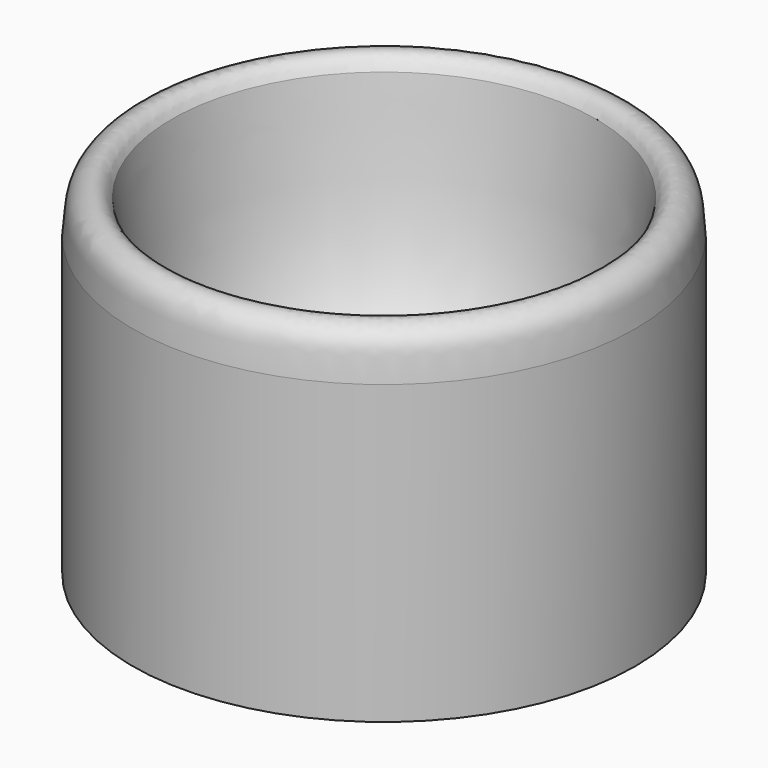
from build123d import *


with BuildPart() as f1:
    # F0 (on Front) → F1 (revolve)
    with BuildSketch(Plane.XZ):
        with BuildLine():
            Line((1.6095943283, 17.4762178212), (1.6095943283, 0))
            add(Edge.make_bspline(
                [(1.6095943283, 0), (8.0507867153, 1.6427433421), (12.5626710729, 15.6106888412), (26.2905218654, 6.2945533922), (31.7379571497, 7.6838517562)],
                knots=[0, 0, 0, 0, 0.4947234491, 1, 1, 1, 1], degree=3))
            Line((31.7379571497, 7.6838517562), (31.7379571497, 45.195389539))
            add(Edge.make_bspline(
                [(31.7379571497, 45.195389539), (31.4321800055, 46.808005049), (32.0866766029, 50.2801203886), (27.8694033623, 51.9400127232), (26.7963949591, 49.4874231517)],
                knots=[0, 0, 0, 0, 0.523622487, 1, 1, 1, 1], degree=3))
            add(Edge.make_bspline(
                [(26.7963949591, 49.4874231517), (25.6467424333, 42.512871325), (24.8182783791, 26.5566580475), (16.2833279214, 21.4101550228), (13.8450392207, 20.5502290405)],
                knots=[0, 0, 0, 0, 0.5538118334, 0.7541391475, 0.7541391475, 0.7541391475, 0.7541391475], degree=3))
            add(Edge.make_bspline(
                [(13.8029076808, 20.5354266177), (13.8315389687, 20.539125097), (13.8382496781, 20.5425035629), (13.8450392207, 20.5502290405)],
                knots=[0.9598324621, 0.9598324621, 0.9598324621, 0.9598324621, 1, 1, 1, 1], degree=3))
            add(Edge.make_bspline(
                [(6.111713592, 29.2316088453), (6.2094542344, 27.0980438152), (7.3771945349, 20.3291347714), (13.5053403784, 20.4969880215), (13.8029076808, 20.5354266177)],
                knots=[0, 0, 0, 0, 0.5423679754, 0.9598324621, 0.9598324621, 0.9598324621, 0.9598324621], degree=3))
            Line((6.111713592, 29.2316088453), (4.7834101133, 29.2316088453))
            Line((4.7834101133, 29.2316088453), (4.7834101133, 20.0271010399))
            Line((4.7834101133, 20.0271010399), (0, 20.0271010399))
            Line((0, 20.0271010399), (0, 17.4762178212))
            Line((0, 17.4762178212), (1.6095943283, 17.4762178212))
        make_face()
        with BuildLine():
            Line((1.6095943283, 17.4762178212), (1.6095943283, 0))
            add(Edge.make_bspline(
                [(1.6095943283, 0), (8.0507867153, 1.6427433421), (12.5626710729, 15.6106888412), (26.2905218654, 6.2945533922), (31.7379571497, 7.6838517562)],
                knots=[0, 0, 0, 0, 0.4947234491, 1, 1, 1, 1], degree=3))
            Line((31.7379571497, 7.6838517562), (31.7379571497, 45.195389539))
            add(Edge.make_bspline(
                [(31.7379571497, 45.195389539), (31.4321800055, 46.808005049), (32.0866766029, 50.2801203886), (27.8694033623, 51.9400127232), (26.7963949591, 49.4874231517)],
                knots=[0, 0, 0, 0, 0.523622487, 1, 1, 1, 1], degree=3))
            add(Edge.make_bspline(
                [(26.7963949591, 49.4874231517), (25.6467424333, 42.512871325), (24.8182783791, 26.5566580475), (16.2833279214, 21.4101550228), (13.8450392207, 20.5502290405)],
                knots=[0, 0, 0, 0, 0.5538118334, 0.7541391475, 0.7541391475, 0.7541391475, 0.7541391475], degree=3))
            add(Edge.make_bspline(
                [(13.8029076808, 20.5354266177), (13.8315389687, 20.539125097), (13.8382496781, 20.5425035629), (13.8450392207, 20.5502290405)],
                knots=[0.9598324621, 0.9598324621, 0.9598324621, 0.9598324621, 1, 1, 1, 1], degree=3))
            add(Edge.make_bspline(
                [(6.111713592, 29.2316088453), (6.2094542344, 27.0980438152), (7.3771945349, 20.3291347714), (13.5053403784, 20.4969880215), (13.8029076808, 20.5354266177)],
                knots=[0, 0, 0, 0, 0.5423679754, 0.9598324621, 0.9598324621, 0.9598324621, 0.9598324621], degree=3))
            Line((6.111713592, 29.2316088453), (4.7834101133, 29.2316088453))
            Line((4.7834101133, 29.2316088453), (4.7834101133, 20.0271010399))
            Line((4.7834101133, 20.0271010399), (0, 20.0271010399))
            Line((0, 20.0271010399), (0, 17.4762178212))
            Line((0, 17.4762178212), (1.6095943283, 17.4762178212))
        make_face()
    revolve(axis=Axis((0, 0, 18.7516594306), (0, 0, 1)))


solid = f1.part
